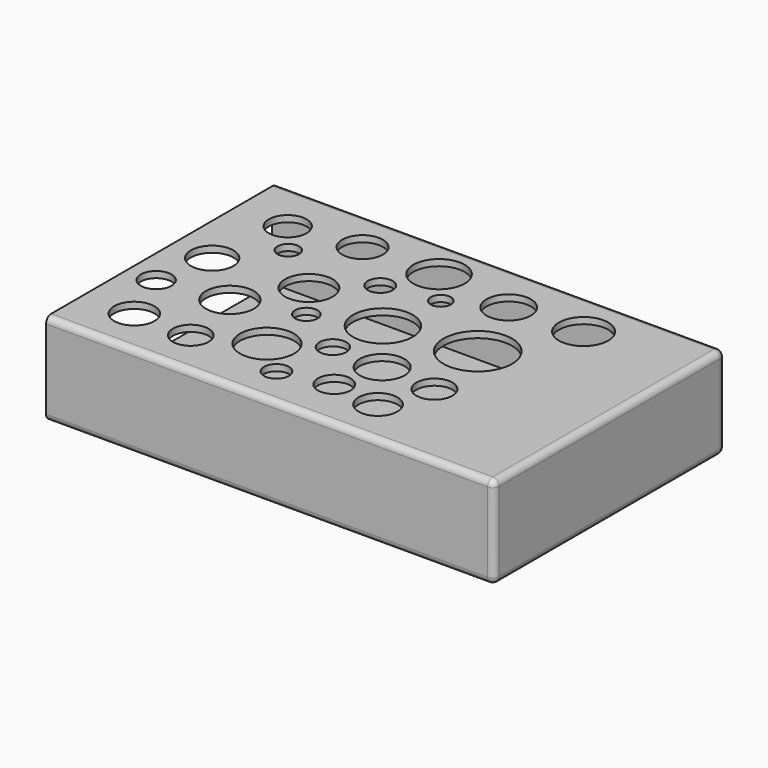
from build123d import *

# Parameters (mm, degrees)
SKETCH001_W    = 139
SKETCH001_H    = 87
PAD_DEPTH      = 25
THICKNESS_T    = 2
SKETCH002_R    = 5.947053
SKETCH002_R_2  = 6.391543
SKETCH002_R_3  = 7.479707
SKETCH002_R_4  = 6.690044
SKETCH002_R_5  = 7.551468
SKETCH002_R_6  = 6.341994
SKETCH002_R_7  = 8.509486
SKETCH002_R_8  = 9.409582
SKETCH002_R_9  = 8.069876
SKETCH002_R_10 = 7.030828
SKETCH002_R_11 = 5.146618
SKETCH002_R_12 = 6.982672
SKETCH002_R_13 = 7.752117
SKETCH002_R_14 = 10.787845
SKETCH002_R_15 = 5.65876
SKETCH002_R_16 = 3.93116
SKETCH002_R_17 = 3.377122
SKETCH002_R_18 = 5.622868
SKETCH002_R_19 = 3.905324
SKETCH002_R_20 = 4.228889
SKETCH002_R_21 = 3.528588
SKETCH002_R_22 = 3.16034
SKETCH002_R_23 = 6.106178
SKETCH002_R_24 = 4.85306
POCKET_DEPTH   = 5


with BuildPart() as part:
    # Sketch001 → Pad (new body)
    with BuildSketch(Plane.XY):
        with Locations((-29.136072, -13.994338)):
            Rectangle(SKETCH001_W, SKETCH001_H)
    extrude(amount=PAD_DEPTH)

    # Thickness
    thickness_openings = [part.faces().sort_by_distance(p)[0] for p in [
        (-98.636072, -13.994338, 12.5),
    ]]
    offset(amount=THICKNESS_T, openings=thickness_openings)

    # Sketch002 (on Face14 of Thickness) → Pocket (cut)
    with BuildSketch(Plane.XY.offset(27)):
        with Locations((-82.334571, 15.216334)):
            Circle(SKETCH002_R)
        with Locations((-61.021297, 18.021215)):
            Circle(SKETCH002_R_2)
        with Locations((-57.73288, -7.189993)):
            Circle(SKETCH002_R_3)
        with Locations((-86.232513, -9.656311)):
            Circle(SKETCH002_R_4)
        with Locations((-68.946266, -24.274019)):
            Circle(SKETCH002_R_5)
        with Locations((-82.723099, -44.663734)):
            Circle(SKETCH002_R_6)
        with Locations((-47.27071, -36.765015)):
            Circle(SKETCH002_R_7)
        with Locations((-30.922209, -11.599332)):
            Circle(SKETCH002_R_8)
        with Locations((-37.351395, 18.526012)):
            Circle(SKETCH002_R_9)
        with Locations((-17.329054, -28.866299)):
            Circle(SKETCH002_R_10)
        with Locations((-20.819183, -43.377895)):
            Circle(SKETCH002_R_11)
        with Locations((-12.920469, 15.403262)):
            Circle(SKETCH002_R_12)
        with Locations((9.489837, 16.872791)):
            Circle(SKETCH002_R_13)
        with Locations((-4.286991, -7.558129)):
            Circle(SKETCH002_R_14)
        with Locations((0, -29.968445)):
            Circle(SKETCH002_R_15)
        with Locations((-44.858665, 4.777251)):
            Circle(SKETCH002_R_16)
        with Locations((-74.249245, 5.328322)):
            Circle(SKETCH002_R_17)
        with Locations((-64.697304, -45.003048)):
            Circle(SKETCH002_R_18)
        with Locations((-36.225178, -46.839958)):
            Circle(SKETCH002_R_19)
        with Locations((-33.469814, -28.103462)):
            Circle(SKETCH002_R_20)
        with Locations((-49.450947, -18.551527)):
            Circle(SKETCH002_R_21)
        with Locations((-28.142773, 7.716309)):
            Circle(SKETCH002_R_22)
        with Locations((-5.732456, -45.003048)):
            Circle(SKETCH002_R_23)
        with Locations((-89.679298, -27.368698)):
            Circle(SKETCH002_R_24)
    extrude(amount=-POCKET_DEPTH, mode=Mode.SUBTRACT)


solid = part.part
